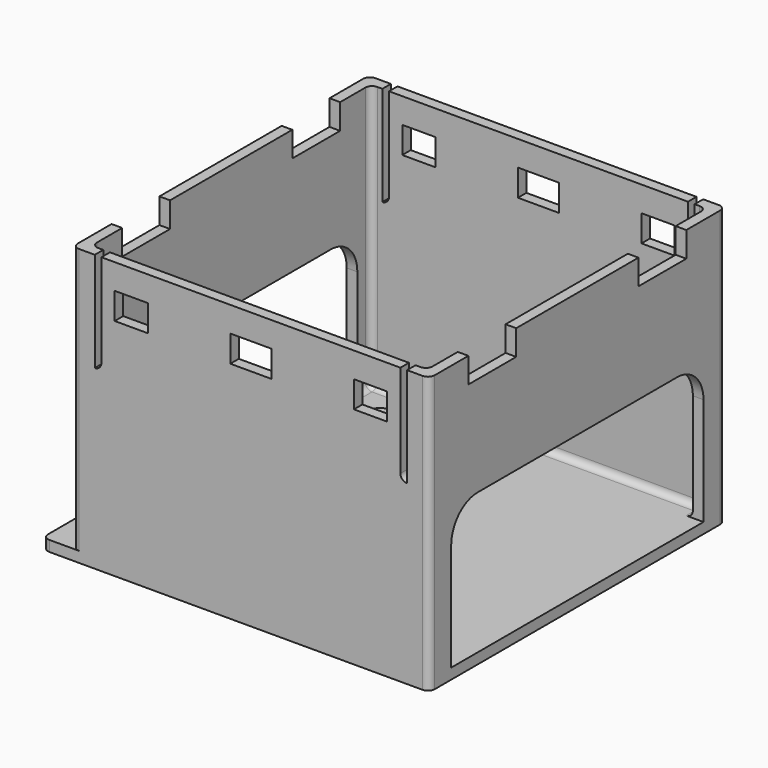
from build123d import *

# Parameters (mm, degrees)
SKETCH041_W          = 58.2
SKETCH041_H          = 55.7
PAD012_DEPTH         = 1.6
SKETCH046_W          = 53.7
SKETCH046_H          = 55.7
SKETCH046_W_2        = 50.5
SKETCH046_H_2        = 52.5
PAD014_DEPTH         = 40
FILLET005_R          = 1
SKETCH039_W          = 6.2
SKETCH039_H          = 4
SKETCH039_W_2        = 5
POCKET011_DEPTH      = 27.851
POCKET011_DEPTH_BACK = 27.851
SKETCH040_W          = 9
SKETCH040_H          = 3.8
POCKET013_DEPTH      = 31.351
POCKET013_DEPTH_BACK = 26.851
SKETCH042_R          = 3.2
PAD013_DEPTH         = 3
SKETCH045_R          = 1.75
POCKET012_DEPTH      = 4.601


with BuildPart() as part:
    # Sketch041 → Pad012 (new body)
    with BuildSketch(Plane.XY):
        with Locations((-2.25, 0)):
            Rectangle(SKETCH041_W, SKETCH041_H)
    extrude(amount=PAD012_DEPTH)

    # Sketch046 → Pad014 (join)
    with BuildSketch(Plane.XY.offset(1.6)):
        Rectangle(SKETCH046_W, SKETCH046_H)
        Rectangle(SKETCH046_W_2, SKETCH046_H_2, mode=Mode.SUBTRACT)
    extrude(amount=PAD014_DEPTH)

    # Fillet005
    fillet005_edges = [part.edges().sort_by_distance(p)[0] for p in [
        (-31.35, -27.85, 0.8),
        (-31.35, 27.85, 0.8),
        (-26.85, 27.85, 21.6),
        (-26.85, -27.85, 21.6),
        (26.85, -27.85, 20.8),
        (25.25, 26.25, 21.6),
        (-25.25, 26.25, 21.6),
        (26.85, 27.85, 20.8),
        (-25.25, -26.25, 21.6),
        (25.25, -26.25, 21.6),
        (0, 26.25, 1.6),
        (-25.25, 0, 1.6),
        (0, -26.25, 1.6),
        (25.25, 0, 1.6),
    ]]
    fillet(fillet005_edges, radius=FILLET005_R)

    # Sketch039 → Pocket011 (cut, two sides)
    with BuildSketch(Plane.XZ) as pocket011_sk:
        with Locations((0, 35.8)):
            Rectangle(SKETCH039_W, SKETCH039_H)
        with Locations((-18, 35.8)):
            Rectangle(SKETCH039_W_2, SKETCH039_H)
        with Locations((18, 35.8)):
            Rectangle(SKETCH039_W_2, SKETCH039_H)
        with BuildLine():
            Line((22.5, 41.6), (23.5, 41.6))
            Line((23.5, 41.6), (23.5, 26.6))
            ThreePointArc((22.5, 27.6), (22.792893, 26.892893), (23.5, 26.6))
            Line((22.5, 27.6), (22.5, 41.6))
        make_face()
        with BuildLine():
            Line((-23.5, 41.6), (-22.5, 41.6))
            Line((-22.5, 41.6), (-22.5, 27.6))
            ThreePointArc((-23.5, 26.6), (-22.792893, 26.892893), (-22.5, 27.6))
            Line((-23.5, 26.6), (-23.5, 41.6))
        make_face()
    extrude(amount=-POCKET011_DEPTH, mode=Mode.SUBTRACT)
    extrude(pocket011_sk.sketch, amount=POCKET011_DEPTH_BACK, mode=Mode.SUBTRACT)

    # Sketch040 → Pocket013 (cut, two sides)
    with BuildSketch(Plane.YZ) as pocket013_sk:
        with Locations((-16, 39.7)):
            Rectangle(SKETCH040_W, SKETCH040_H)
        with Locations((16, 39.7)):
            Rectangle(SKETCH040_W, SKETCH040_H)
        with BuildLine():
            Line((-18.733, 22.8), (18.733, 22.8))
            ThreePointArc((23.733, 17.8), (22.268534, 21.335534), (18.733, 22.8))
            Line((23.733, 1.6), (23.733, 17.8))
            Line((-23.733, 1.6), (23.733, 1.6))
            Line((-23.733, 17.8), (-23.733, 1.6))
            ThreePointArc((-18.733, 22.8), (-22.268534, 21.335534), (-23.733, 17.8))
        make_face()
    extrude(amount=-POCKET013_DEPTH, mode=Mode.SUBTRACT)
    extrude(pocket013_sk.sketch, amount=POCKET013_DEPTH_BACK, mode=Mode.SUBTRACT)

    # Sketch042 → Pad013 (join)
    with BuildSketch(Plane.XY.offset(1.6)):
        with Locations((-15.348, 15.621)):
            Circle(SKETCH042_R)
        with Locations((-28.048, -19.431)):
            Circle(SKETCH042_R)
        with Locations((-15.348, -19.431)):
            Circle(SKETCH042_R)
        with Locations((-28.048, 15.621)):
            Circle(SKETCH042_R)
    extrude(amount=PAD013_DEPTH)

    # Sketch045 → Pocket012 (cut, through all)
    with BuildSketch(Plane.XY.offset(4.6)):
        with Locations((-28.048, 15.621)):
            Circle(SKETCH045_R)
        with Locations((-15.348, 15.621)):
            Circle(SKETCH045_R)
        with Locations((-15.348, -19.431)):
            Circle(SKETCH045_R)
        with Locations((-28.048, -19.431)):
            Circle(SKETCH045_R)
    extrude(amount=-POCKET012_DEPTH, mode=Mode.SUBTRACT)


solid = part.part
